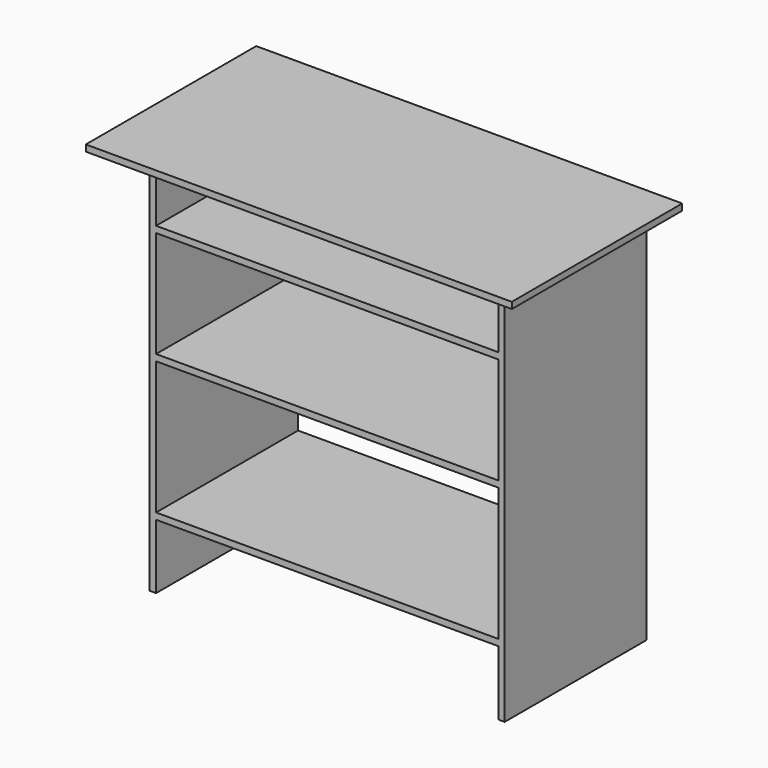
from build123d import *

# Parameters (mm, degrees)
F0_W     = 1200
F0_H     = 18
F1_DEPTH = 600
F2_W     = 18
F2_H     = 1097
F3_DEPTH = 500
F4_W     = 964
F4_H     = 18
F5_DEPTH = 500
F6_W     = 964
F6_H     = 300
F7_DEPTH = 18


with BuildPart() as f1:
    # F0 (on Front) → F1 (new body)
    with BuildSketch(Plane.XZ):
        with Locations((0, 1106)):
            Rectangle(F0_W, F0_H)
    extrude(amount=F1_DEPTH)

    # F2 (on Front) → F3 (join)
    with BuildSketch(Plane.XZ):
        with Locations((-491, 548.5)):
            Rectangle(F2_W, F2_H)
        with Locations((491, 548.5)):
            Rectangle(F2_W, F2_H)
    extrude(amount=F3_DEPTH)

    # F4 (on Front) → F5 (join)
    with BuildSketch(Plane.XZ):
        with Locations((0, 191)):
            Rectangle(F4_W, F4_H)
        with Locations((0, 584)):
            Rectangle(F4_W, F4_H)
        with Locations((0, 902)):
            Rectangle(F4_W, F4_H)
    extrude(amount=F5_DEPTH)

    # F6 (on Front) → F7 (join)
    with BuildSketch(Plane.XZ):
        with Locations((0, 743)):
            Rectangle(F6_W, F6_H)
    extrude(amount=F7_DEPTH)


solid = f1.part
